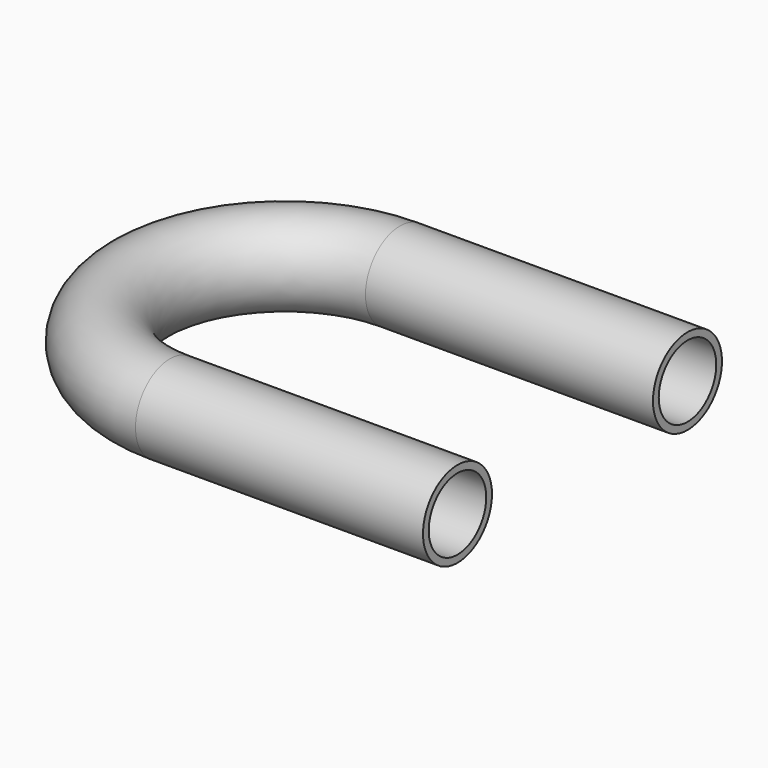
from build123d import *

# Parameters (mm, degrees)
F1_R   = 7.62
F1_R_2 = 6.35


with BuildPart() as f2:
    # F2: sweep along a path in F0
    with BuildLine(Plane.XY) as f2_path:
        Line((0, 0), (-50.8, 0))
        ThreePointArc((-50.8, 0), (-76.2, 25.4), (-50.8, 50.8))
        Line((-50.8, 50.8), (0, 50.8))
    # F1 (on Right) → F2 (sweep)
    with BuildSketch(Plane.YZ):
        Circle(F1_R)
        Circle(F1_R_2, mode=Mode.SUBTRACT)
    sweep(path=f2_path.line)


solid = f2.part
